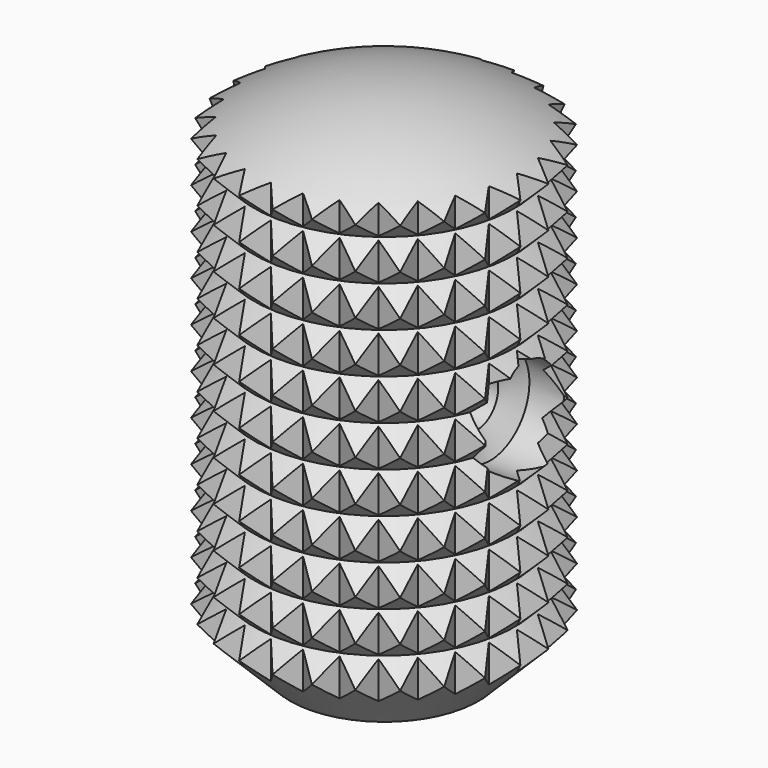
from build123d import *

# Parameters (mm, degrees)
F1_DEPTH = 25
F6_D     = 2
F6_DEPTH = 9
F6_TIP   = 0.600860619
F7_W     = 1.2
F7_H     = 0.7
F7_H_2   = 0.6


with BuildPart() as f1:
    # F0 (on Top) → F1 (new body)
    with BuildSketch(Plane.XY):
        Polygon((3.972953431, -0.4643716565), (3.5085817745, 0), (3.972953431, 0.4643716565), (3.4140074987, 0.809134641), (3.7587704831, 1.3680805733), (3.1353831949, 1.574648624), (3.3419512457, 2.1980359123), (2.6877295716, 2.2552728922), (2.7449665515, 2.9094945663), (2.0951797513, 2.814314815), (2, 3.4641016151), (1.3896782484, 3.2216362976), (1.1472129308, 3.8319580493), (0.6092588313, 3.4552785336), (0.2325793156, 3.9932326331), (-0.204005887, 3.5026458094), (-0.6945927107, 3.939231012), (-1.0062725951, 3.361184543), (-1.5843190642, 3.6728644275), (-1.7542908872, 3.0385209479), (-2.3886343668, 3.208492771), (-2.4077349035, 2.5520499021), (-3.0641777725, 2.5711504387), (-2.9313773079, 1.9279971854), (-3.5745305613, 1.7951967208), (-3.2969884029, 1.2000056414), (-3.8921794823, 0.922463483), (-3.4848579997, 0.4073214826), (-4, 0), (-3.4848579997, -0.4073214826), (-3.8921794823, -0.922463483), (-3.2969884029, -1.2000056414), (-3.5745305613, -1.7951967208), (-2.9313773079, -1.9279971854), (-3.0641777725, -2.5711504387), (-2.4077349035, -2.5520499021), (-2.3886343668, -3.208492771), (-1.7542908872, -3.0385209479), (-1.5843190642, -3.6728644275), (-1.0062725951, -3.361184543), (-0.6945927107, -3.939231012), (-0.204005887, -3.5026458094), (0.2325793156, -3.9932326331), (0.6092588313, -3.4552785336), (1.1472129308, -3.8319580493), (1.3896782484, -3.2216362976), (2, -3.4641016151), (2.0951797513, -2.814314815), (2.7449665515, -2.9094945663), (2.6877295716, -2.2552728922), (3.3419512457, -2.1980359123), (3.1353831949, -1.574648624), (3.7587704831, -1.3680805733), (3.4140074987, -0.809134641), align=None)
    extrude(amount=F1_DEPTH)


with BuildPart() as f3:
    # F2 (on Front) → F3 (revolve)
    with BuildSketch(Plane.XZ):
        with BuildLine():
            Line((-2.5, 0), (0, 0))
            Line((0, 0), (0, 13.5))
            ThreePointArc((0, 13.5), (-2.0818062138, 13.2052815967), (-4, 12.3442887702))
            Line((-4, 12.3442887702), (-3.4577855615, 11.8020743317))
            Line((-3.4577855615, 11.8020743317), (-4, 11.2598598932))
            Line((-4, 11.2598598932), (-3.4577855615, 10.7176454547))
            Line((-3.4577855615, 10.7176454547), (-4, 10.1754310162))
            Line((-4, 10.1754310162), (-3.4577855615, 9.6332165777))
            Line((-3.4577855615, 9.6332165777), (-4, 9.0910021392))
            Line((-4, 9.0910021392), (-3.4577855615, 8.5487877006))
            Line((-3.4577855615, 8.5487877006), (-4, 8.0065732621))
            Line((-4, 8.0065732621), (-3.4577855615, 7.4643588236))
            Line((-3.4577855615, 7.4643588236), (-4, 6.9221443851))
            Line((-4, 6.9221443851), (-3.4577855615, 6.3799299466))
            Line((-3.4577855615, 6.3799299466), (-4, 5.8377155081))
            Line((-4, 5.8377155081), (-3.4577855615, 5.2955010696))
            Line((-3.4577855615, 5.2955010696), (-4, 4.7532866311))
            Line((-4, 4.7532866311), (-3.4577855615, 4.2110721926))
            Line((-3.4577855615, 4.2110721926), (-4, 3.668857754))
            Line((-4, 3.668857754), (-3.4577855615, 3.1266433155))
            Line((-3.4577855615, 3.1266433155), (-4, 2.584428877))
            Line((-4, 2.584428877), (-3.4577855615, 2.0422144385))
            Line((-3.4577855615, 2.0422144385), (-4, 1.5))
            Line((-4, 1.5), (-2.5, 0))
        make_face()
    revolve(axis=Axis((0, 0, 6.75), (0, 0, -1)))


with BuildPart() as f1_1:
    add(f1.part)

    # F4: intersect F3
    add(f3.part, mode=Mode.INTERSECT)

    # F6
    with Locations(Plane(origin=(0, 0, 0), x_dir=(1, 0, 0), z_dir=(0, 0, -1))):
        with Locations((0, 0)):
            Hole(F6_D / 2, depth=F6_DEPTH)
            with Locations((0, 0, -(F6_DEPTH + F6_TIP / 2))):  # 118° drill point
                Cone(0, F6_D / 2, F6_TIP, mode=Mode.SUBTRACT)

    # F7 (on Front) → F8 (revolve, cut)
    with BuildSketch(Plane.XZ):
        Polygon((2.4535898385, 7.7), (0, 7.7), (0, 7), (2.8, 7), (2.8, 7.7), align=None)
        with Locations((3.4, 7.35)):
            Rectangle(F7_W, F7_H)
        Polygon((2.8, 8.3), (2.4535898385, 7.7), (2.8, 7.7), align=None)
        with Locations((3.4, 8)):
            Rectangle(F7_W, F7_H_2)
    revolve(axis=Axis((2, 0, 7), (1, 0, 0)), mode=Mode.SUBTRACT)


solid = f1_1.part
